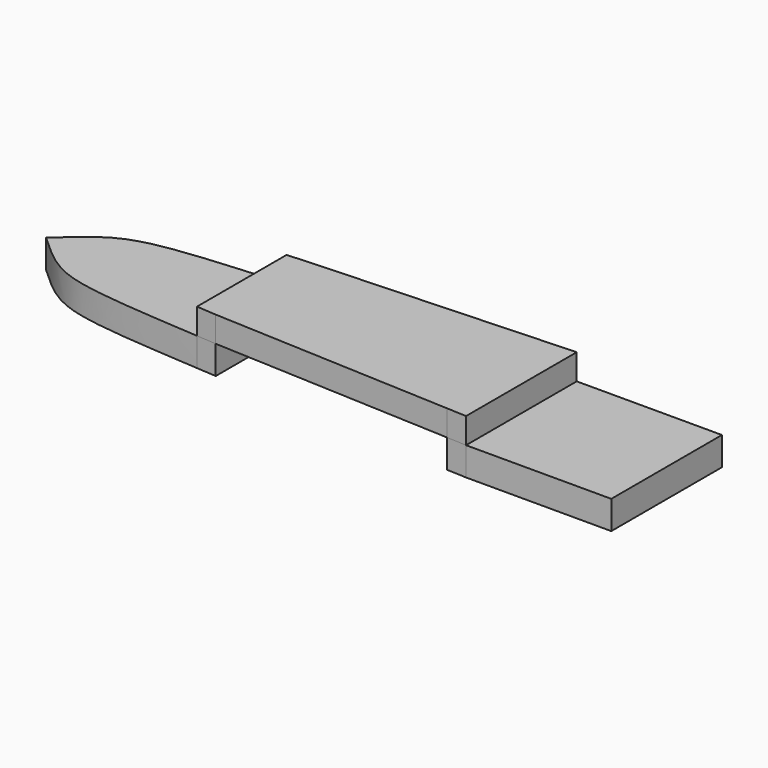
from build123d import *

# Parameters (mm, degrees)
F1_DEPTH = 1.86
F2_DEPTH = 1.68


with BuildPart() as f1:
    # F0 (on Top) → F1 (new body)
    with BuildSketch(Plane.XY):
        Polygon((-9.5, 4.525), (-9.5, 0), (-9.5, -4.525), (0, -4.525), (0, 0), (0, 4.525), align=None)
        Polygon((-9.5, -4.525), (-9.5, 0), (-10.8, 0), (-10.8, -4.465735), align=None)
        with BuildLine():
            Line((-27.8, 0), (-26.5, 0))
            Line((-26.5, 0), (-26.5, 3.75))
            add(Edge.make_bspline(
                [(-27.8, 3.661657), (-27.384877, 3.690006), (-26.951887, 3.719363), (-26.5, 3.75)],
                knots=[13.98, 13.98, 13.98, 13.98, 14.590151, 14.590151, 14.590151, 14.590151], degree=3))
            Line((-27.8, 3.661657), (-27.8, 0))
        make_face()
        with BuildLine():
            Line((-26.5, -3.75), (-26.5, 0))
            Line((-26.5, 0), (-27.8, 0))
            Line((-27.8, 0), (-27.8, -3.661657))
            add(Edge.make_bspline(
                [(-27.8, -3.661657), (-27.384877, -3.690006), (-26.951887, -3.719363), (-26.5, -3.75)],
                knots=[13.98, 13.98, 13.98, 13.98, 14.590151, 14.590151, 14.590151, 14.590151], degree=3))
        make_face()
        with BuildLine():
            Line((-27.8, -3.661657), (-27.8, 0))
            Line((-27.8, 0), (-40.6, 0))
            add(Edge.make_bspline(
                [(-40.6, 0), (-37.443453, -2.891201), (-37.311448, -3.01211), (-27.8, -3.661657)],
                knots=[0, 0, 0, 0, 13.98, 13.98, 13.98, 13.98], degree=3))
        make_face()
        with BuildLine():
            Line((-40.6, 0), (-27.8, 0))
            Line((-27.8, 0), (-27.8, 3.661657))
            add(Edge.make_bspline(
                [(-40.6, 0), (-37.443453, 2.891201), (-37.311448, 3.01211), (-27.8, 3.661657)],
                knots=[0, 0, 0, 0, 13.98, 13.98, 13.98, 13.98], degree=3))
        make_face()
        Polygon((-10.8, 0), (-9.5, 0), (-9.5, 4.525), (-10.8, 4.465735), align=None)
    extrude(amount=-F1_DEPTH)


with BuildPart() as f2:
    # F0 (on Top) → F2 (new body)
    with BuildSketch(Plane.XY):
        with BuildLine():
            Line((-27.8, 0), (-26.5, 0))
            Line((-26.5, 0), (-26.5, 3.75))
            add(Edge.make_bspline(
                [(-27.8, 3.661657), (-27.384877, 3.690006), (-26.951887, 3.719363), (-26.5, 3.75)],
                knots=[13.98, 13.98, 13.98, 13.98, 14.590151, 14.590151, 14.590151, 14.590151], degree=3))
            Line((-27.8, 3.661657), (-27.8, 0))
        make_face()
        with BuildLine():
            Line((-26.5, -3.75), (-26.5, 0))
            Line((-26.5, 0), (-27.8, 0))
            Line((-27.8, 0), (-27.8, -3.661657))
            add(Edge.make_bspline(
                [(-27.8, -3.661657), (-27.384877, -3.690006), (-26.951887, -3.719363), (-26.5, -3.75)],
                knots=[13.98, 13.98, 13.98, 13.98, 14.590151, 14.590151, 14.590151, 14.590151], degree=3))
        make_face()
        Polygon((-10.8, -4.465735), (-10.8, 0), (-26.5, 0), (-26.5, -3.75), align=None)
        Polygon((-26.5, 0), (-10.8, 0), (-10.8, 4.465735), (-26.5, 3.75), align=None)
        Polygon((-10.8, 0), (-9.5, 0), (-9.5, 4.525), (-10.8, 4.465735), align=None)
        Polygon((-9.5, -4.525), (-9.5, 0), (-10.8, 0), (-10.8, -4.465735), align=None)
    extrude(amount=F2_DEPTH)


solid = Compound([f1.part, f2.part])
